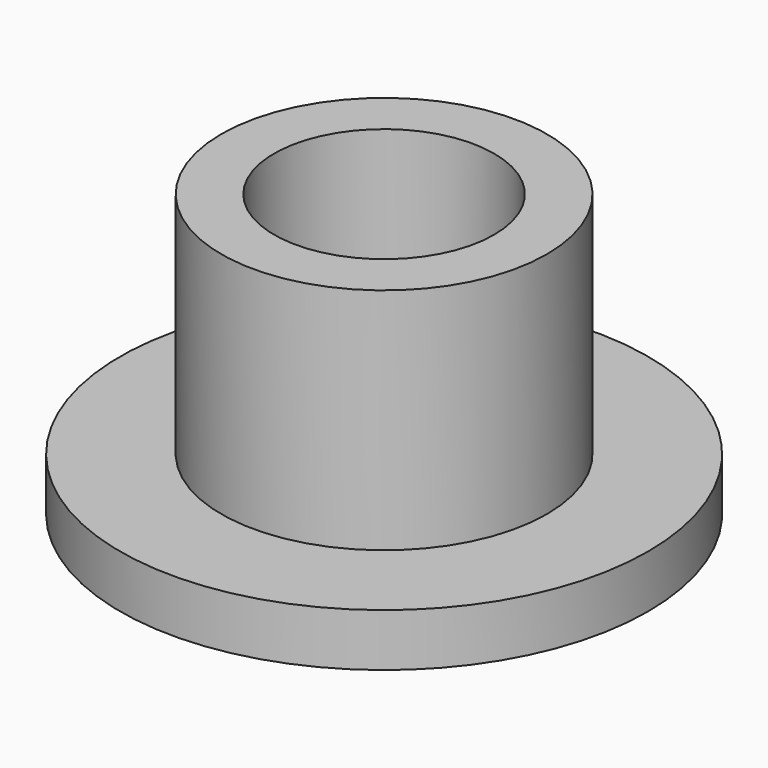
from build123d import *

# Parameters (mm, degrees)
SKETCH_R     = 6
PAD_DEPTH    = 1.2
SKETCH001_R  = 3.7
PAD001_DEPTH = 5.2
SKETCH002_R  = 2.5
POCKET_DEPTH = 5.2


with BuildPart() as part:
    # Sketch → Pad (new body)
    with BuildSketch(Plane.XY):
        Circle(SKETCH_R)
    extrude(amount=PAD_DEPTH)

    # Sketch001 (on Face3 of Pad) → Pad001 (join)
    with BuildSketch(Plane.XY.offset(1.2)):
        Circle(SKETCH001_R)
    extrude(amount=PAD001_DEPTH)

    # Sketch002 (on Face5 of Pad001) → Pocket (cut)
    with BuildSketch(Plane.XY.offset(6.4)):
        Circle(SKETCH002_R)
    extrude(amount=-POCKET_DEPTH, mode=Mode.SUBTRACT)


solid = part.part
